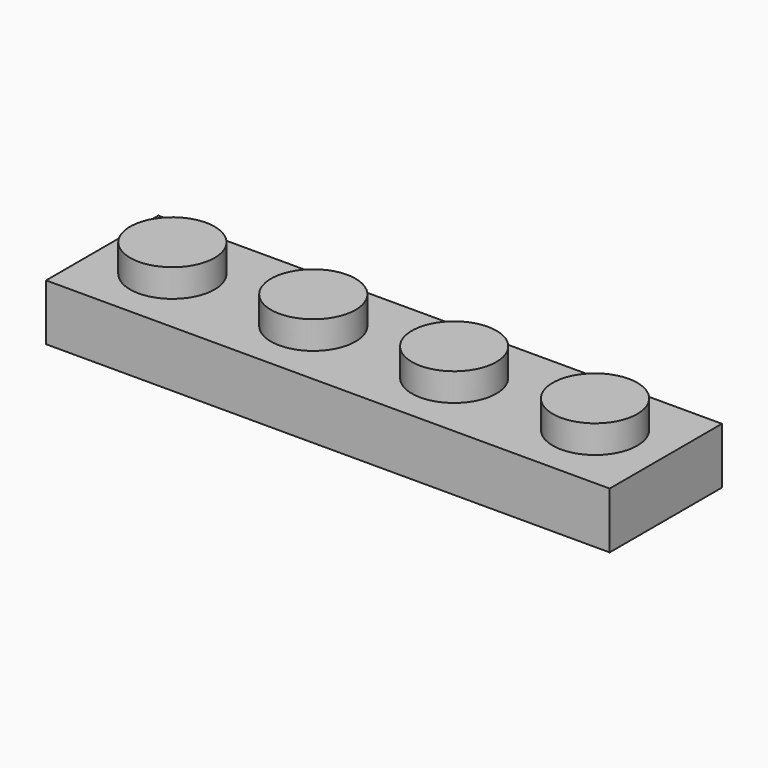
from build123d import *

# Parameters (mm, degrees)
F0_W     = 31.8262
F0_H     = 7.9248
F0_R     = 2.3876
F1_DEPTH = 3.175
F2_DEPTH = 4.7498
F3_T     = -1.6002


with BuildPart() as f1:
    # F0 (on Top) → F1 (new body)
    with BuildSketch(Plane.XY):
        with Locations((-9.8033006705, 15.9547276562)):
            Rectangle(F0_W, F0_H)
        with Locations((-21.7540006705, 15.9547276562)):
            Circle(F0_R, mode=Mode.SUBTRACT)
        with Locations((-13.7974506705, 15.9547276562)):
            Circle(F0_R, mode=Mode.SUBTRACT)
        with Locations((-5.8409006705, 15.9547276562)):
            Circle(F0_R, mode=Mode.SUBTRACT)
        with Locations((2.1156493295, 15.9547276562)):
            Circle(F0_R, mode=Mode.SUBTRACT)
    extrude(amount=F1_DEPTH)

    # F0 (on Top) → F2 (join)
    with BuildSketch(Plane.XY):
        with Locations((-21.7540006705, 15.9547276562)):
            Circle(F0_R)
        with Locations((-13.7974506705, 15.9547276562)):
            Circle(F0_R)
        with Locations((-5.8409006705, 15.9547276562)):
            Circle(F0_R)
        with Locations((2.1156493295, 15.9547276562)):
            Circle(F0_R)
    extrude(amount=F2_DEPTH)

    # F3
    f3_openings = [f1.faces().sort_by_distance(p)[0] for p in [
        (-9.803301, 15.954728, 0),
    ]]
    offset(amount=F3_T, openings=f3_openings, kind=Kind.INTERSECTION)


solid = f1.part
